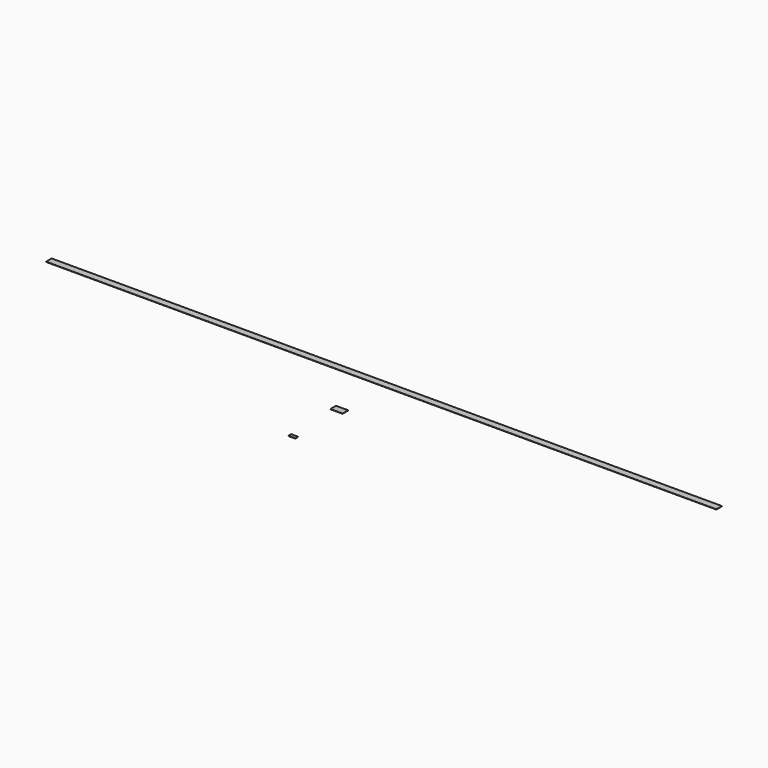
from build123d import *

# Parameters (mm, degrees)
F0_W     = 304.8
F0_H     = 3.175
F1_DEPTH = 0.127
F3_DEPTH = 0.127
F5_DEPTH = 0.127


with BuildPart() as f1:
    # F0 (on Top) → F1 (new body)
    with BuildSketch(Plane.XY):
        with Locations((0, 1.5875)):
            Rectangle(F0_W, F0_H)
    extrude(amount=F1_DEPTH)


with BuildPart() as f3:
    # F2 (on Top) → F3 (new body)
    with BuildSketch(Plane.XY):
        Polygon((2.778125, -22.225), (0, -22.225), (-2.778125, -22.225), (-2.778125, -25.4), (0, -25.4), (2.778125, -25.4), align=None)
    extrude(amount=F3_DEPTH)


with BuildPart() as f5:
    # F4 (on Top) → F5 (new body)
    with BuildSketch(Plane.XY):
        Polygon((1.5875, -49.2125), (0, -49.2125), (-1.5875, -49.2125), (-1.5875, -50.8), (0, -50.8), (1.5875, -50.8), align=None)
    extrude(amount=F5_DEPTH)


solid = Compound([f1.part, f3.part, f5.part])
